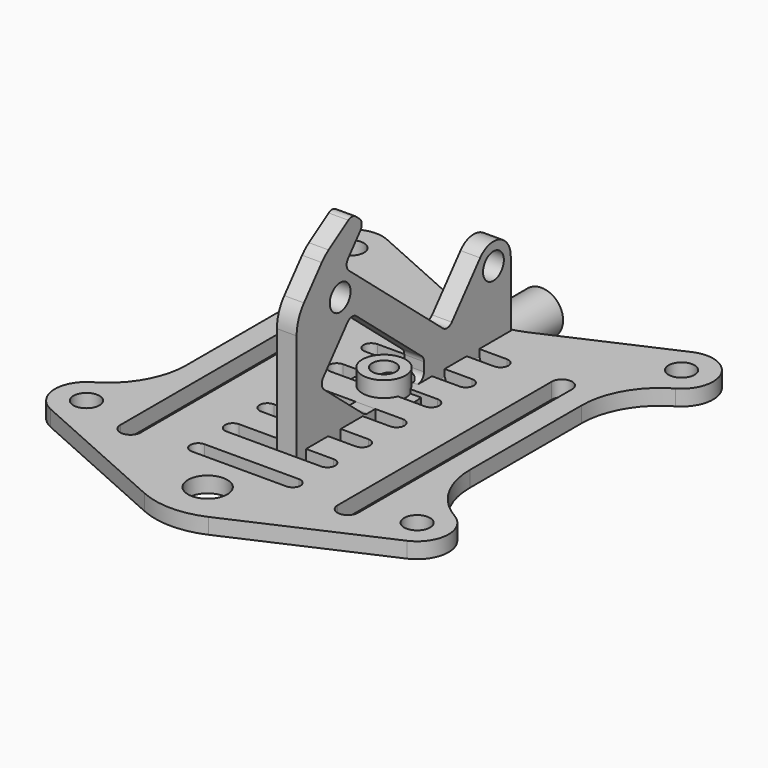
from build123d import *

# Parameters (mm, degrees)
F0_R      = 1.65
F1_DEPTH  = 2.5
F2_R      = 1.65
F3_DEPTH  = 2
F4_W      = 1.5
F4_H      = 25
F6_R      = 2.5
F7_DEPTH  = 25
F8_R      = 2.75
F8_R_2    = 1.5
F9_DEPTH  = 4
F10_R     = 4
F10_R_2   = 1.65
F11_DEPTH = 1.5


with BuildPart() as f1:
    # F0 (on Right) → F1 (new body)
    with BuildSketch(Plane.YZ):
        with BuildLine():
            Line((-18, 0), (-21, 0))
            Line((-21, 0), (-21, -5.5))
            Line((-21, -5.5), (-11, -5.5))
            Line((-11, -5.5), (-11, -4.5))
            ThreePointArc((-11, -4.5), (-10.4142135624, -3.0857864376), (-9, -2.5))
            Line((-9, -2.5), (9, -2.5))
            ThreePointArc((9, -2.5), (10.4142135624, -3.0857864376), (11, -4.5))
            Line((11, -4.5), (11, -5.5))
            Line((11, -5.5), (21, -5.5))
            Line((21, -5.5), (21, 0))
            Line((21, 0), (18, 0))
            ThreePointArc((18, 0), (17.2928932188, 0.2928932188), (17, 1))
            Line((17, 1), (17, 10.3606896183))
            ThreePointArc((17, 10.3606896183), (15.1905553941, 12.9448443255), (12.1433777814, 12.128355545))
            Line((12.1433777814, 12.128355545), (7.6438645136, 6.7660444431))
            ThreePointArc((7.6438645136, 6.7660444431), (6.9649758132, 6.4126373547), (6.2350324608, 6.6427876097))
            Line((6.2350324608, 6.6427876097), (-8.70283418, 19.1771459986))
            ThreePointArc((-8.70283418, 19.1771459986), (-9.0562412684, 19.8560346989), (-8.8260910134, 20.5859780514))
            Line((-8.8260910134, 20.5859780514), (-6.8977281844, 22.8841113807))
            ThreePointArc((-6.8977281844, 22.8841113807), (-6.6675779294, 23.6140547332), (-7.0209850178, 24.2929434335))
            Line((-7.0209850178, 24.2929434335), (-7.6000911369, 24.7788711645))
            ThreePointArc((-7.6000911369, 24.7788711645), (-8.1844501081, 25.0111183091), (-8.7919125893, 24.8486268407))
            Line((-8.7919125893, 24.8486268407), (-11.9197093411, 22.793989338))
            ThreePointArc((-11.9197093411, 22.793989338), (-12.4974574514, 22.3510589302), (-13.0047623429, 21.8289267896))
            Line((-13.0047623429, 21.8289267896), (-15.8302222156, 18.4616748357))
            ThreePointArc((-15.8302222156, 18.4616748357), (-16.6984631039, 16.9578375038), (-17, 15.2477367872))
            Line((-17, 15.2477367872), (-17, 1))
            ThreePointArc((-17, 1), (-17.2928932188, 0.2928932188), (-18, 0))
        make_face()
        with BuildLine():
            ThreePointArc((-8.9142228727, 13.4801893706), (-8.2353341723, 13.833596459), (-7.5053908199, 13.6034462041))
            Line((-7.5053908199, 13.6034462041), (2.8620189935, 4.9041564534))
            ThreePointArc((2.8620189935, 4.9041564534), (3.1255391708, 4.560730272), (3.2192313838, 4.1381120103))
            Line((3.2192313838, 4.1381120103), (3.2192313838, 3))
            ThreePointArc((3.2192313838, 3), (2.926338165, 2.2928932188), (2.2192313838, 2))
            Line((2.2192313838, 2), (-5.7587625003, 2))
            ThreePointArc((-5.7587625003, 2), (-6.1007826436, 2.0603073792), (-6.40155011, 2.2339555569))
            Line((-6.40155011, 2.2339555569), (-12.6476916974, 7.4750906591))
            ThreePointArc((-12.6476916974, 7.4750906591), (-13.0010987858, 8.1539793595), (-12.7709485308, 8.8839227119))
            Line((-12.7709485308, 8.8839227119), (-8.9142228727, 13.4801893706))
        make_face(mode=Mode.SUBTRACT)
        with Locations((-10.0874778851, 16.7491299752)):
            Circle(F0_R, mode=Mode.SUBTRACT)
        with Locations((14.25, 10.3606896183)):
            Circle(F0_R, mode=Mode.SUBTRACT)
    extrude(amount=F1_DEPTH)


with BuildPart() as f3:
    # F2 (on Top) → F3 (new body)
    with BuildSketch(Plane.XY):
        with BuildLine():
            Line((-4.0786698965, 17.8219928381), (-19.3685320414, 24.6521654262))
            ThreePointArc((-19.3685320414, 24.6521654262), (-24.5629016429, 22.8181671768), (-23, 17.5358983849))
            ThreePointArc((-23, 17.5358983849), (-19.3397459622, 13.875644347), (-18, 8.875644347))
            Line((-18, 8.875644347), (-18, -8.875644347))
            ThreePointArc((-18, -8.875644347), (-19.3397459622, -13.875644347), (-23, -17.5358983849))
            ThreePointArc((-23, -17.5358983849), (-24.9946469224, -21.206871858), (-22.6314679586, -24.6521654262))
            Line((-22.6314679586, -24.6521654262), (-4.0786698965, -32.9399322847))
            ThreePointArc((-4.0786698965, -32.9399322847), (0, -33.8095187193), (4.0786698965, -32.9399322847))
            Line((4.0786698965, -32.9399322847), (22.6314679586, -24.6521654262))
            ThreePointArc((22.6314679586, -24.6521654262), (24.9946469224, -21.206871858), (23, -17.5358983849))
            ThreePointArc((23, -17.5358983849), (19.3397459622, -13.875644347), (18, -8.875644347))
            Line((18, -8.875644347), (18, 8.875644347))
            ThreePointArc((18, 8.875644347), (19.3397459622, 13.875644347), (23, 17.5358983849))
            ThreePointArc((23, 17.5358983849), (24.5629016429, 22.8181671768), (19.3685320414, 24.6521654262))
            Line((19.3685320414, 24.6521654262), (4.0786698965, 17.8219928381))
            ThreePointArc((4.0786698965, 17.8219928381), (0, 16.9524064035), (-4.0786698965, 17.8219928381))
        make_face()
        with Locations((-21, -21)):
            Circle(F2_R, mode=Mode.SUBTRACT)
        with BuildLine():
            Line((-15.1, -23), (-15.1, 11))
            ThreePointArc((-15.1, 11), (-13.8, 12.3), (-12.5, 11))
            Line((-12.5, 11), (-12.5, -23))
            ThreePointArc((-12.5, -23), (-13.8, -24.3), (-15.1, -23))
        make_face(mode=Mode.SUBTRACT)
        with Locations((21, -21)):
            Circle(F2_R, mode=Mode.SUBTRACT)
        with BuildLine():
            ThreePointArc((12.5, 11), (13.8, 12.3), (15.1, 11))
            Line((15.1, 11), (15.1, -23))
            ThreePointArc((15.1, -23), (13.8, -24.3), (12.5, -23))
            Line((12.5, -23), (12.5, 11))
        make_face(mode=Mode.SUBTRACT)
        with Locations((-21, 21)):
            Circle(F2_R, mode=Mode.SUBTRACT)
        with Locations((21, 21)):
            Circle(F2_R, mode=Mode.SUBTRACT)
    extrude(amount=F3_DEPTH)

    # F6 (on face) → F7 (cut)
    with BuildSketch(Plane(origin=(0, 0, 0), x_dir=(1, 0, 0), z_dir=(0, 0, -1))):
        with BuildLine():
            ThreePointArc((-6, 23), (-7, 22), (-6, 21))
            Line((-6, 21), (6, 21))
            ThreePointArc((6, 21), (7, 22), (6, 23))
            Line((6, 23), (-6, 23))
        make_face()
        with BuildLine():
            ThreePointArc((-6, 17.5), (-7, 16.5), (-6, 15.5))
            Line((-6, 15.5), (6, 15.5))
            ThreePointArc((6, 15.5), (7, 16.5), (6, 17.5))
            Line((6, 17.5), (-6, 17.5))
        make_face()
        with BuildLine():
            ThreePointArc((-6, 12), (-7, 11), (-6, 10))
            Line((-6, 10), (6, 10))
            ThreePointArc((6, 10), (7, 11), (6, 12))
            Line((6, 12), (-6, 12))
        make_face()
        with BuildLine():
            ThreePointArc((-6, 6.5), (-7, 5.5), (-6, 4.5))
            Line((-6, 4.5), (6, 4.5))
            ThreePointArc((6, 4.5), (7, 5.5), (6, 6.5))
            Line((6, 6.5), (-6, 6.5))
        make_face()
        with BuildLine():
            ThreePointArc((-6, 1), (-7, 0), (-6, -1))
            Line((-6, -1), (6, -1))
            ThreePointArc((6, -1), (7, 0), (6, 1))
            Line((6, 1), (-6, 1))
        make_face()
        with BuildLine():
            ThreePointArc((-6, -4.5), (-7, -5.5), (-6, -6.5))
            Line((-6, -6.5), (6, -6.5))
            ThreePointArc((6, -6.5), (7, -5.5), (6, -4.5))
            Line((6, -4.5), (-6, -4.5))
        make_face()
        with BuildLine():
            ThreePointArc((-6, -10), (-7, -11), (-6, -12))
            Line((-6, -12), (6, -12))
            ThreePointArc((6, -12), (7, -11), (6, -10))
            Line((6, -10), (-6, -10))
        make_face()
        with Locations((0, 28)):
            Circle(F6_R)
    extrude(amount=-F7_DEPTH, mode=Mode.SUBTRACT)


with BuildPart() as f5:
    # F4 (on Top) → F5 (revolve)
    with BuildSketch(Plane.XY):
        with Locations((2, 12.5)):
            Rectangle(F4_W, F4_H)
    revolve(axis=Axis((0, 12.5, 0), (0, 1, 0)))


with BuildPart() as f9:
    # F8 (on Top) → F9 (new body)
    with BuildSketch(Plane.XY):
        Circle(F8_R)
        Circle(F8_R_2, mode=Mode.SUBTRACT)
    extrude(amount=F9_DEPTH)


with BuildPart() as f11:
    # F10 (on Top) → F11 (new body)
    with BuildSketch(Plane.XY):
        Circle(F10_R)
        Circle(F10_R_2, mode=Mode.SUBTRACT)
    extrude(amount=F11_DEPTH)


solid = Compound([f1.part, f3.part, f5.part, f9.part, f11.part])
